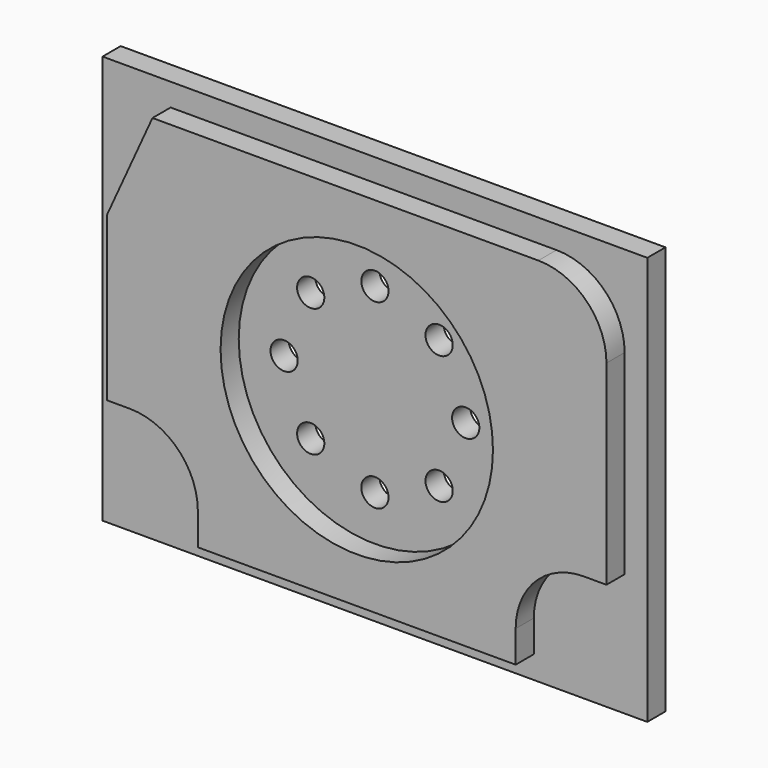
from build123d import *

# Parameters (mm, degrees)
F0_W     = 120
F0_H     = 90
F1_DEPTH = 5
F3_DEPTH = 5
F4_R     = 30
F5_DEPTH = 5
F6_R     = 3
F7_DEPTH = 5


with BuildPart() as f1:
    # F0 (on Front) → F1 (new body)
    with BuildSketch(Plane.XZ):
        Rectangle(F0_W, F0_H)
    extrude(amount=F1_DEPTH)

    # F2 (on face) → F3 (join)
    with BuildSketch(Plane.XZ.offset(5)):
        with BuildLine():
            Line((-55, 18), (-55, -18))
            Line((-55, -18), (-50, -18))
            ThreePointArc((-50, -18), (-39.393398, -22.393398), (-35, -33))
            Line((-35, -33), (-35, -40))
            Line((-35, -40), (35, -40))
            Line((35, -40), (35, -33))
            ThreePointArc((35, -33), (39.393398, -22.393398), (50, -18))
            Line((50, -18), (55, -18))
            Line((55, -18), (55, 25))
            ThreePointArc((55, 25), (50.606602, 35.606602), (40, 40))
            Line((40, 40), (-45, 40))
            Line((-45, 40), (-55, 18))
        make_face()
    extrude(amount=F3_DEPTH)

    # F4 (on face) → F5 (cut)
    with BuildSketch(Plane.XZ.offset(10)):
        Circle(F4_R)
    extrude(amount=-F5_DEPTH, mode=Mode.SUBTRACT)

    # F6 (on face) → F7 (cut)
    with BuildSketch(Plane.XZ.offset(5)):
        with Locations((-14.144271, 14.14)):
            Circle(F6_R)
        with Locations((0, 20)):
            Circle(F6_R)
        with Locations((14.144271, 14.14)):
            Circle(F6_R)
        with Locations((20, 0)):
            Circle(F6_R)
        with Locations((14.144271, -14.14)):
            Circle(F6_R)
        with Locations((0, -20)):
            Circle(F6_R)
        with Locations((-14.144271, -14.14)):
            Circle(F6_R)
        with Locations((-20, 0)):
            Circle(F6_R)
    extrude(amount=-F7_DEPTH, mode=Mode.SUBTRACT)


solid = f1.part
